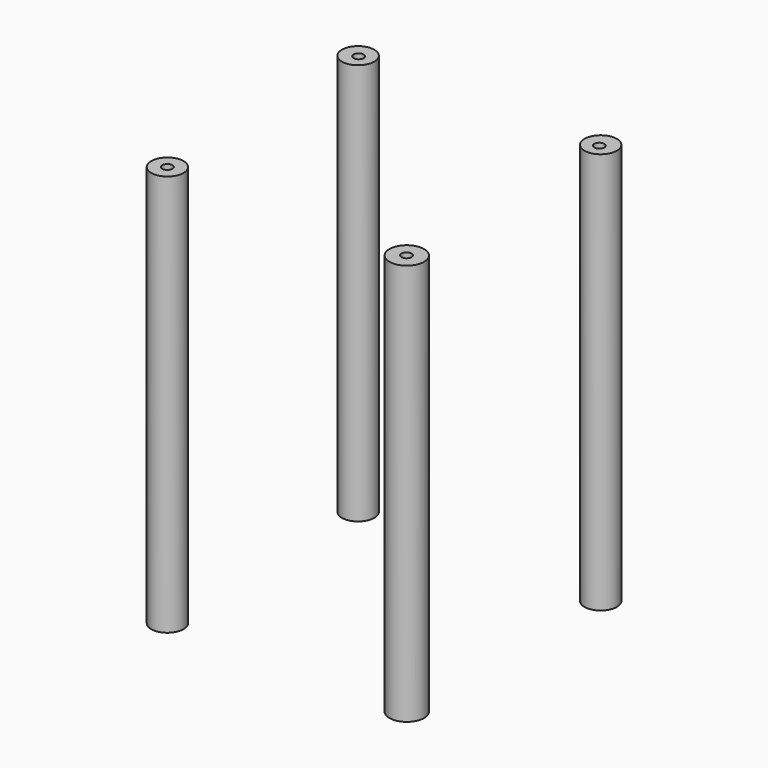
from build123d import *

# Parameters (mm, degrees)
F0_R       = 10.2489411148
F1_DEPTH   = 254
F0_R_2     = 10.2089969217
F0_R_3     = 10.9504197112
F0_R_4     = 10.2130357503
F3_D       = 6.35
F3_DEPTH   = 25.4
F3_TIP     = 1.9077324654
F3_2_D     = 6.35
F3_2_DEPTH = 25.4
F3_2_TIP   = 1.9077324654
F3_3_D     = 6.35
F3_3_DEPTH = 25.4
F3_3_TIP   = 1.9077324654
F3_4_D     = 6.35
F3_4_DEPTH = 25.4
F3_4_TIP   = 1.9077324654
F5_D       = 6.35
F5_DEPTH   = 25.4
F5_TIP     = 1.9077324654
F5_2_D     = 6.35
F5_2_DEPTH = 25.4
F5_2_TIP   = 1.9077324654
F5_3_D     = 6.35
F5_3_DEPTH = 25.4
F5_3_TIP   = 1.9077324654
F5_4_D     = 6.35
F5_4_DEPTH = 25.4
F5_4_TIP   = 1.9077324654


with BuildPart() as f1:
    # F0 (on Top) → F1 (new body)
    with BuildSketch(Plane.XY):
        with Locations((-76.7337605357, 76.1099159718)):
            Circle(F0_R)
    extrude(amount=F1_DEPTH)

    # F3
    with Locations(Plane.XY.offset(254)):
        with Locations((-76.0830789804, 75.7205635309), (76.4182135463, 75.3583312035), (75.3315091133, -75.6940171123), (-75.9019628167, -75.6940022111)):
            Hole(F3_D / 2, depth=F3_DEPTH)
            with Locations((0, 0, -(F3_DEPTH + F3_TIP / 2))):  # 118° drill point
                Cone(0, F3_D / 2, F3_TIP, mode=Mode.SUBTRACT)

    # F5
    with Locations(Plane(origin=(0, 0, 0), x_dir=(1, 0, 0), z_dir=(0, 0, -1))):
        with Locations((-76.2344002724, 76.2682408094), (76.08576864, 76.2682408094), (76.1810094118, -75.8899748325), (-76.5020474792, -75.9265944362)):
            Hole(F5_D / 2, depth=F5_DEPTH)
            with Locations((0, 0, -(F5_DEPTH + F5_TIP / 2))):  # 118° drill point
                Cone(0, F5_D / 2, F5_TIP, mode=Mode.SUBTRACT)


with BuildPart() as f1b:
    # F0 (on Top) → F1, piece 2 (new body)
    with BuildSketch(Plane.XY):
        with Locations((76.3178616762, 76.5258148313)):
            Circle(F0_R_2)
    extrude(amount=F1_DEPTH)

    # F3#2
    with Locations(Plane.XY.offset(254)):
        with Locations((-76.0830789804, 75.7205635309), (76.4182135463, 75.3583312035), (75.3315091133, -75.6940171123), (-75.9019628167, -75.6940022111)):
            Hole(F3_2_D / 2, depth=F3_2_DEPTH)
            with Locations((0, 0, -(F3_2_DEPTH + F3_2_TIP / 2))):  # 118° drill point
                Cone(0, F3_2_D / 2, F3_2_TIP, mode=Mode.SUBTRACT)

    # F5#2
    with Locations(Plane(origin=(0, 0, 0), x_dir=(1, 0, 0), z_dir=(0, 0, -1))):
        with Locations((-76.2344002724, 76.2682408094), (76.08576864, 76.2682408094), (76.1810094118, -75.8899748325), (-76.5020474792, -75.9265944362)):
            Hole(F5_2_D / 2, depth=F5_2_DEPTH)
            with Locations((0, 0, -(F5_2_DEPTH + F5_2_TIP / 2))):  # 118° drill point
                Cone(0, F5_2_D / 2, F5_2_TIP, mode=Mode.SUBTRACT)


with BuildPart() as f1c:
    # F0 (on Top) → F1, piece 3 (new body)
    with BuildSketch(Plane.XY):
        with Locations((75.4860490561, -75.6940022111)):
            Circle(F0_R_3)
    extrude(amount=F1_DEPTH)

    # F3#3
    with Locations(Plane.XY.offset(254)):
        with Locations((-76.0830789804, 75.7205635309), (76.4182135463, 75.3583312035), (75.3315091133, -75.6940171123), (-75.9019628167, -75.6940022111)):
            Hole(F3_3_D / 2, depth=F3_3_DEPTH)
            with Locations((0, 0, -(F3_3_DEPTH + F3_3_TIP / 2))):  # 118° drill point
                Cone(0, F3_3_D / 2, F3_3_TIP, mode=Mode.SUBTRACT)

    # F5#3
    with Locations(Plane(origin=(0, 0, 0), x_dir=(1, 0, 0), z_dir=(0, 0, -1))):
        with Locations((-76.2344002724, 76.2682408094), (76.08576864, 76.2682408094), (76.1810094118, -75.8899748325), (-76.5020474792, -75.9265944362)):
            Hole(F5_3_D / 2, depth=F5_3_DEPTH)
            with Locations((0, 0, -(F5_3_DEPTH + F5_3_TIP / 2))):  # 118° drill point
                Cone(0, F5_3_D / 2, F5_3_TIP, mode=Mode.SUBTRACT)


with BuildPart() as f1d:
    # F0 (on Top) → F1, piece 4 (new body)
    with BuildSketch(Plane.XY):
        with Locations((-75.9019628167, -75.6940022111)):
            Circle(F0_R_4)
    extrude(amount=F1_DEPTH)

    # F3#4
    with Locations(Plane.XY.offset(254)):
        with Locations((-76.0830789804, 75.7205635309), (76.4182135463, 75.3583312035), (75.3315091133, -75.6940171123), (-75.9019628167, -75.6940022111)):
            Hole(F3_4_D / 2, depth=F3_4_DEPTH)
            with Locations((0, 0, -(F3_4_DEPTH + F3_4_TIP / 2))):  # 118° drill point
                Cone(0, F3_4_D / 2, F3_4_TIP, mode=Mode.SUBTRACT)

    # F5#4
    with Locations(Plane(origin=(0, 0, 0), x_dir=(1, 0, 0), z_dir=(0, 0, -1))):
        with Locations((-76.2344002724, 76.2682408094), (76.08576864, 76.2682408094), (76.1810094118, -75.8899748325), (-76.5020474792, -75.9265944362)):
            Hole(F5_4_D / 2, depth=F5_4_DEPTH)
            with Locations((0, 0, -(F5_4_DEPTH + F5_4_TIP / 2))):  # 118° drill point
                Cone(0, F5_4_D / 2, F5_4_TIP, mode=Mode.SUBTRACT)


solid = Compound([f1.part, f1b.part, f1c.part, f1d.part])
